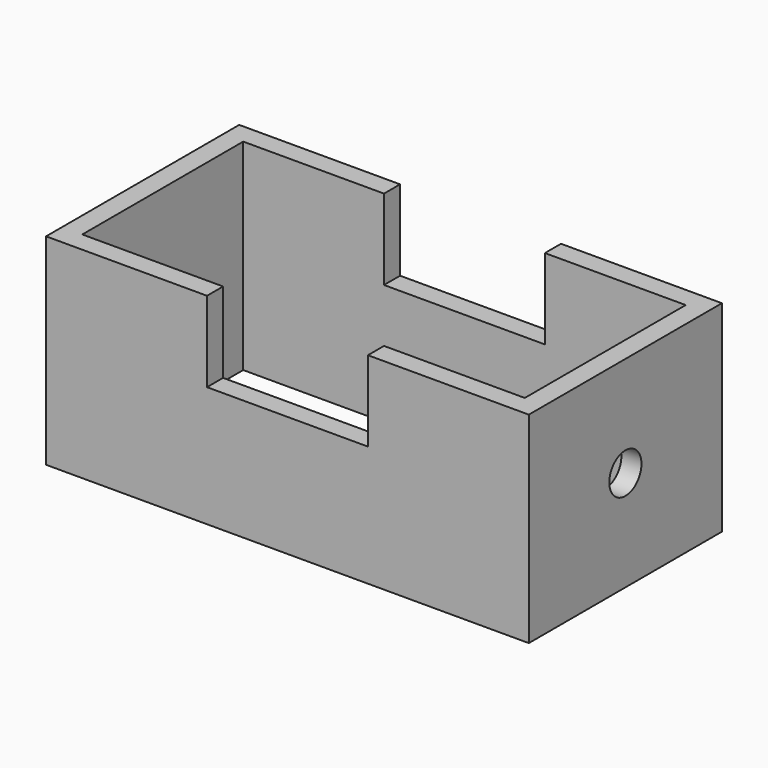
from build123d import *

# Parameters (mm, degrees)
F0_W     = 152.4
F0_H     = 76.2
F0_W_2   = 139.7
F0_H_2   = 63.5
F1_DEPTH = 63.5
F2_W     = 50.8
F2_H     = 25.4
F3_DEPTH = 81.026
F4_R     = 6.35
F5_DEPTH = 156.972


with BuildPart() as f1:
    # F0 (on Top) → F1 (new body)
    with BuildSketch(Plane.XY):
        Rectangle(F0_W, F0_H)
        Rectangle(F0_W_2, F0_H_2, mode=Mode.SUBTRACT)
    extrude(amount=F1_DEPTH)

    # F2 (on face) → F3 (cut)
    with BuildSketch(Plane.XZ.offset(38.1)):
        with Locations((0, 50.8)):
            Rectangle(F2_W, F2_H)
    extrude(amount=-F3_DEPTH, mode=Mode.SUBTRACT)

    # F4 (on face) → F5 (cut)
    with BuildSketch(Plane.YZ.offset(76.2)):
        with Locations((0, 31.75)):
            Circle(F4_R)
    extrude(amount=-F5_DEPTH, mode=Mode.SUBTRACT)


solid = f1.part
